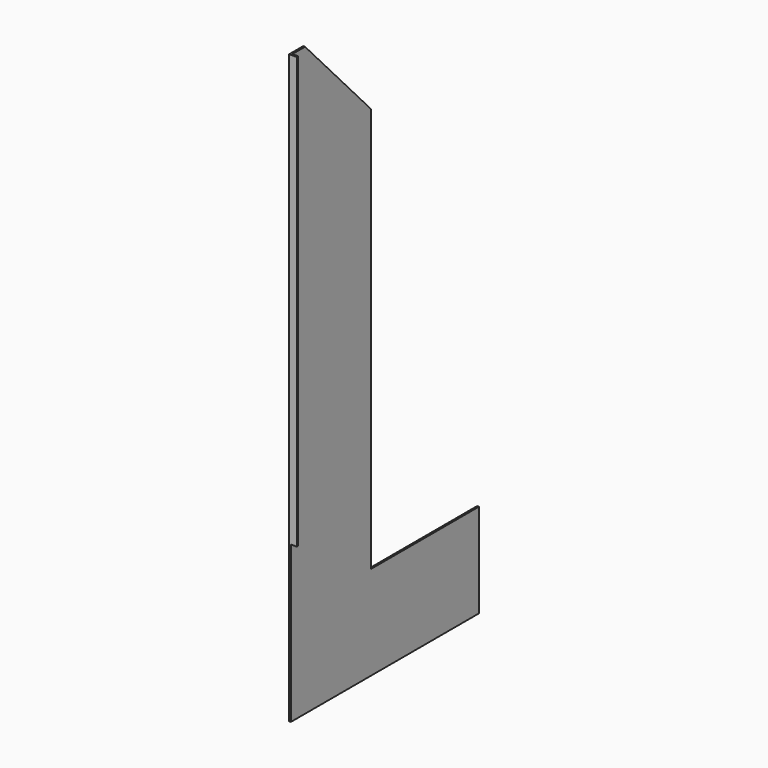
from build123d import *

# Parameters (mm, degrees)
F1_DEPTH = 3
F2_W     = 3
F2_H     = 734
F3_DEPTH = 10


with BuildPart() as f1:
    # F0 (on Right) → F1 (new body)
    with BuildSketch(Plane.YZ):
        Polygon((-400, 0), (0, 0), (0, 160), (-230, 160), (-230, 850), (-370, 1000), (-400, 1000), align=None)
    extrude(amount=F1_DEPTH)

    # F2 (on face) → F3 (join)
    with BuildSketch(Plane.YZ.offset(3)):
        with Locations((-398.5, 633)):
            Rectangle(F2_W, F2_H)
    extrude(amount=F3_DEPTH)


solid = f1.part
